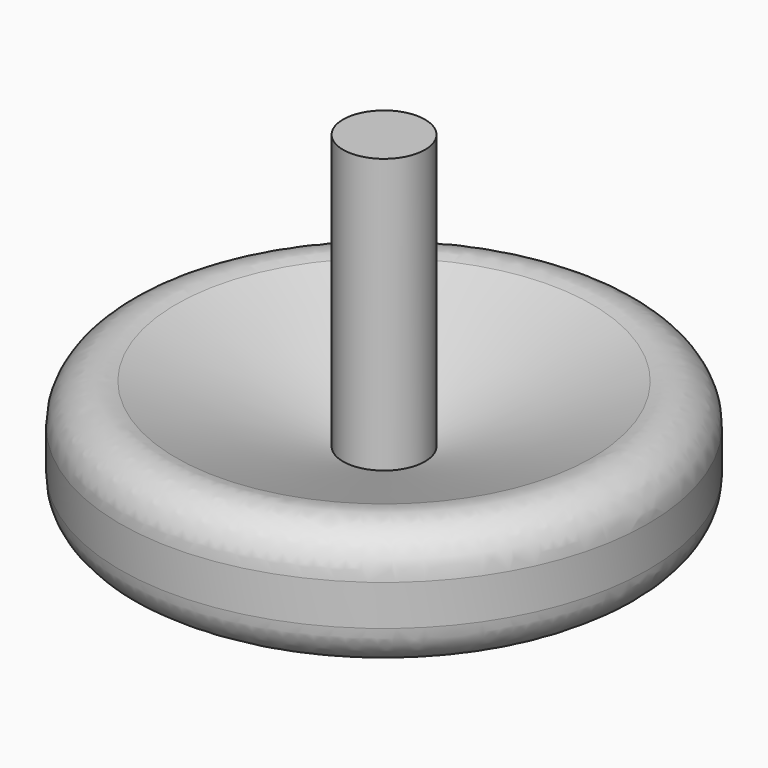
from build123d import *

# Parameters (mm, degrees)
F2_R = 5.08


with BuildPart() as f1:
    # F0 (on Front) → F1 (revolve)
    with BuildSketch(Plane.XZ):
        Polygon((0, 50.8), (0, 0), (4.932402, 12.7), (31.75, 9.240629), (31.75, 27.020629), (4.932402, 17.78), (4.932402, 50.8), align=None)
    revolve(axis=Axis((0, 0, 25.4), (0, 0, -1)))

    # F2
    f2_edges = [f1.edges().sort_by_distance(p)[0] for p in [
        (-31.75, 0, 9.240629),
        (-31.75, 0, 27.020629),
        (31.75, 0, 18.130629),
    ]]
    fillet(f2_edges, radius=F2_R)


solid = f1.part
